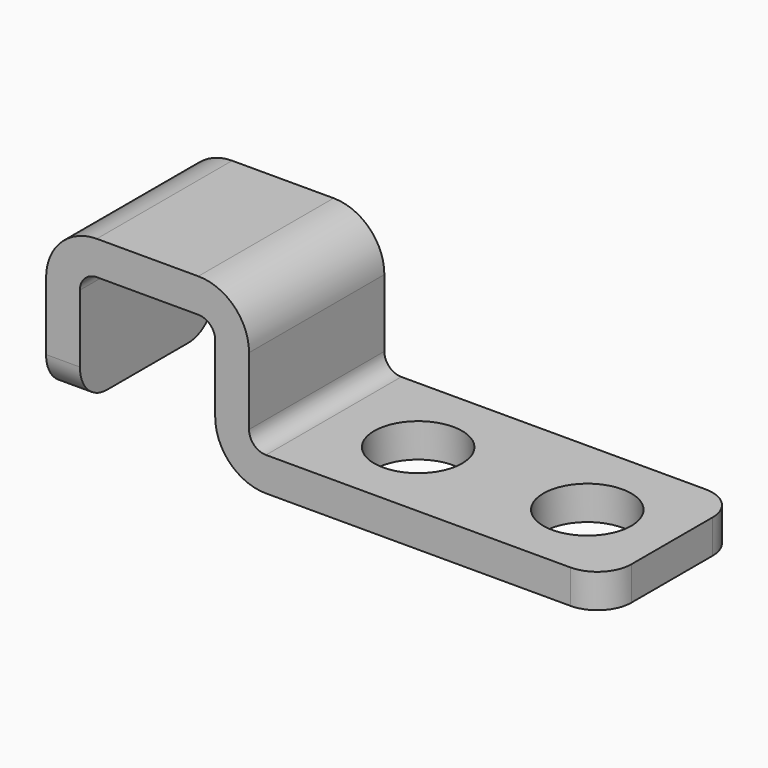
from build123d import *

# Parameters (mm, degrees)
F1_W = 10
F1_H = 2
F3_R = 2
F4_R = 2
F6_D = 5.2


with BuildPart() as f2:
    # F2: sweep along a path in F0
    with BuildLine(Plane.XZ) as f2_path:
        Line((0, 0), (-20, 0))
        ThreePointArc((-20, 0), (-21.4142135624, 0.5857864376), (-22, 2))
        Line((-22, 2), (-22, 6))
        ThreePointArc((-22, 6), (-22.5857864376, 7.4142135624), (-24, 8))
        Line((-24, 8), (-30, 8))
        ThreePointArc((-30, 8), (-31.4142135624, 7.4142135624), (-32, 6))
        Line((-32, 6), (-32, 0))
    # F1 (on Right) → F2 (sweep)
    with BuildSketch(Plane.YZ):
        with Locations((5, 0)):
            Rectangle(F1_W, F1_H)
    sweep(path=f2_path.line)

    # F3
    f3_edges = [f2.edges().sort_by_distance(p)[0] for p in [
        (-32, 0, 0),
        (-32, 10, 0),
    ]]
    fillet(f3_edges, radius=F3_R)

    # F4
    f4_edges = [f2.edges().sort_by_distance(p)[0] for p in [
        (0, 0, 0),
        (0, 10, 0),
    ]]
    fillet(f4_edges, radius=F4_R)

    # F6 (through all)
    with Locations(Plane.XY.offset(1)):
        with Locations((-15, 5), (-5, 5)):
            Hole(F6_D / 2)


solid = f2.part
